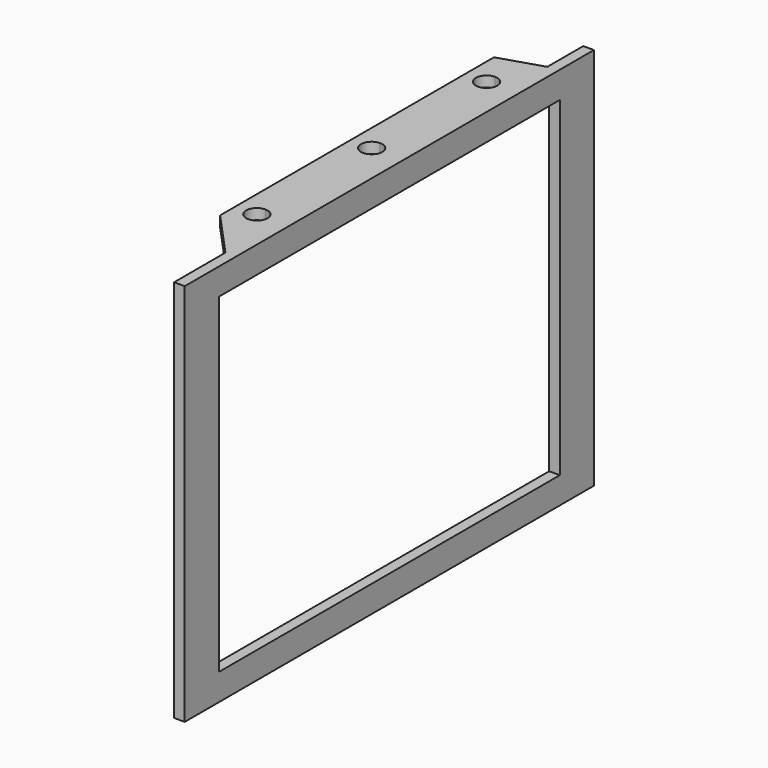
from build123d import *

# Parameters (mm, degrees)
F0_W     = 3.175
F0_H     = 152.4
F1_DEPTH = 114.3
F2_W     = 127
F2_H     = 98.425
F3_DEPTH = 25.4
F4_W     = 119.8984608054
F4_H     = 3.175
F5_DEPTH = 12.7
F7_DEPTH = 25.4
F9_DEPTH = 25.4


with BuildPart() as f1:
    # F0 (on Top) → F1 (new body)
    with BuildSketch(Plane.XY):
        Rectangle(F0_W, F0_H)
    extrude(amount=F1_DEPTH)

    # F2 (on face) → F3 (cut)
    with BuildSketch(Plane.YZ.offset(1.5875)):
        with Locations((0, 57.15)):
            Rectangle(F2_W, F2_H)
    extrude(amount=-F3_DEPTH, mode=Mode.SUBTRACT)

    # F4 (on face) → F5 (join)
    with BuildSketch(Plane(origin=(-1.5875, 0, 0), x_dir=(0, -1, 0), z_dir=(-1, 0, 0))):
        with Locations((-2.8692372143, 112.7125)):
            Rectangle(F4_W, F4_H)
    extrude(amount=F5_DEPTH)

    # F6 (on face) → F7 (cut)
    with BuildSketch(Plane.XY.offset(114.3)):
        Polygon((-14.2875, 58.8119849563), (-1.5875, 62.818467617), (-14.2875, 62.818467617), align=None)
        Polygon((-14.2875, -57.0799931884), (-1.5875, -57.0799931884), (-14.2875, -43.1980900466), align=None)
    extrude(amount=-F7_DEPTH, mode=Mode.SUBTRACT)

    # F8 (on face) → F9 (cut)
    with BuildSketch(Plane.XY.offset(114.3)):
        with BuildLine():
            ThreePointArc((-4.7625, 48.1152262866), (-5.6924359697, 50.3602903169), (-7.9375, 51.2902262866))
            Line((-7.9375, 51.2902262866), (-7.9375, 44.9402262866))
            ThreePointArc((-7.9375, 44.9402262866), (-5.6924359697, 45.8701622564), (-4.7625, 48.1152262866))
        make_face()
        with BuildLine():
            ThreePointArc((-4.7625, -37.4390416175), (-5.6924359697, -35.1939775872), (-7.9375, -34.2640416175))
            Line((-7.9375, -34.2640416175), (-7.9375, -40.6140416175))
            ThreePointArc((-7.9375, -40.6140416175), (-5.6924359697, -39.6841056478), (-4.7625, -37.4390416175))
        make_face()
        with BuildLine():
            Line((-7.9375, -40.6140416175), (-7.9375, -34.2640416175))
            ThreePointArc((-7.9375, -34.2640416175), (-11.1125, -37.4390416175), (-7.9375, -40.6140416175))
        make_face()
        with BuildLine():
            ThreePointArc((-4.7625, 5.3380923346), (-5.6924359697, 7.5831563648), (-7.9375, 8.5130923346))
            Line((-7.9375, 8.5130923346), (-7.9375, 2.1630923346))
            ThreePointArc((-7.9375, 2.1630923346), (-5.6924359697, 3.0930283043), (-4.7625, 5.3380923346))
        make_face()
        with BuildLine():
            Line((-7.9375, 2.1630923346), (-7.9375, 8.5130923346))
            ThreePointArc((-7.9375, 8.5130923346), (-11.1125, 5.3380923346), (-7.9375, 2.1630923346))
        make_face()
        with BuildLine():
            Line((-7.9375, 44.9402262866), (-7.9375, 51.2902262866))
            ThreePointArc((-7.9375, 51.2902262866), (-11.1125, 48.1152262866), (-7.9375, 44.9402262866))
        make_face()
    extrude(amount=-F9_DEPTH, mode=Mode.SUBTRACT)


solid = f1.part
